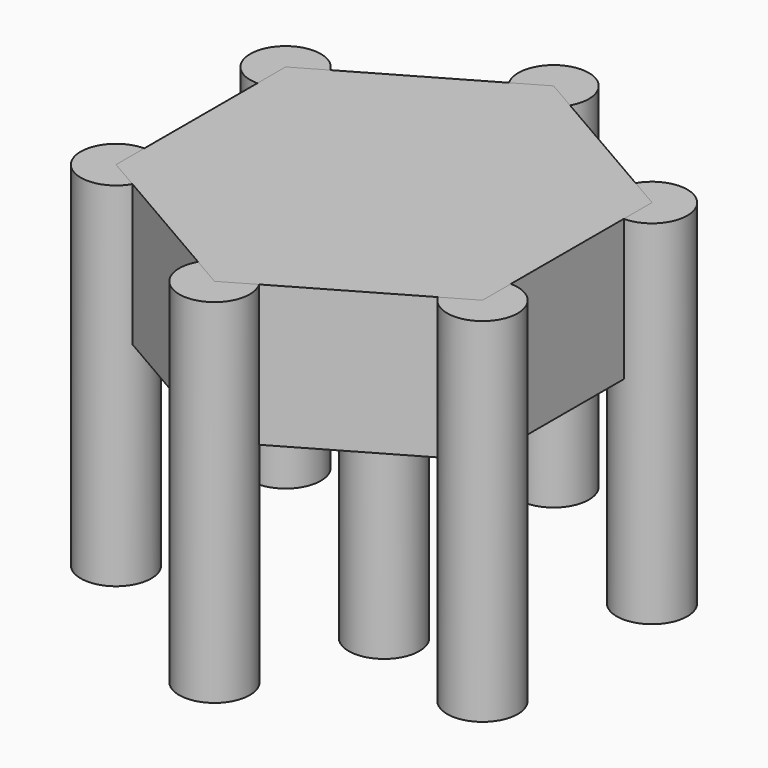
from build123d import *

# Parameters (mm, degrees)
F0_R          = 12.7
F1_DEPTH      = 127
F2_W          = 6.35
F2_H          = 12.7
F3_DEPTH      = 20.066
F6_R          = 12.7
F7_DEPTH      = 50.8
F7_DEPTH_BACK = 76.2
F8_DEPTH      = 50.8


with BuildPart() as f1:
    # F0 (on Top) → F1 (new body)
    with BuildSketch(Plane.XY):
        Circle(F0_R)
    extrude(amount=F1_DEPTH)

    # F2 (on Top) → F3 (cut)
    with BuildSketch(Plane.XY):
        Rectangle(F2_W, F2_H)
    extrude(amount=F3_DEPTH, mode=Mode.SUBTRACT)


with BuildPart() as f7:
    # F6 (on offset) → F7 (new body, two sides)
    with BuildSketch(Plane.XY.offset(93.218)) as f7_sk:
        with Locations((65.958012, -38.157315)):
            Circle(F6_R)
        with Locations((-0.066198, -76.199971)):
            Circle(F6_R)
        with Locations((-66.02421, -38.042656)):
            Circle(F6_R)
        with Locations((-65.958012, 38.157315)):
            Circle(F6_R)
        with Locations((0.066198, 76.199971)):
            Circle(F6_R)
        with Locations((66.02421, 38.042656)):
            Circle(F6_R)
    extrude(amount=F7_DEPTH)
    extrude(f7_sk.sketch, amount=-F7_DEPTH_BACK)


with BuildPart() as f8:
    # F5 (on offset) → F8 (new body)
    with BuildSketch(Plane.XY.offset(93.218)):
        Polygon((-0.066198, -76.199971), (65.958012, -38.157315), (66.02421, 38.042656), (0.066198, 76.199971), (-65.958012, 38.157315), (-66.02421, -38.042656), align=None)
    extrude(amount=F8_DEPTH)


solid = Compound([f1.part, f7.part, f8.part])
